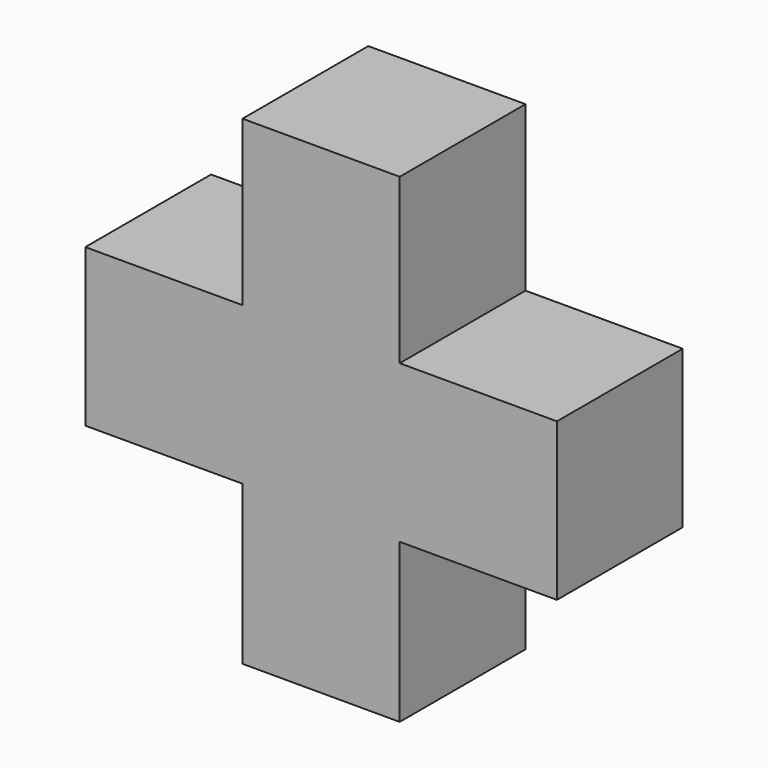
from build123d import *

# Parameters (mm, degrees)
F0_W     = 19
F0_H     = 19
F1_DEPTH = 19


with BuildPart() as f1:
    # F0 (on Front) → F1 (new body)
    with BuildSketch(Plane.XZ):
        Polygon((7.165254, 19.838981), (-11.834746, 19.838981), (-11.834746, 0), (-11.834746, -19), (-11.834746, -38.161019), (-2.334746, -38.161019), (7.165254, -38.161019), (7.165254, -19), (7.165254, 0), align=None)
        with Locations((-21.334746, -9.5)):
            Rectangle(F0_W, F0_H)
        with Locations((16.665254, -9.5)):
            Rectangle(F0_W, F0_H)
    extrude(amount=F1_DEPTH)


solid = f1.part
